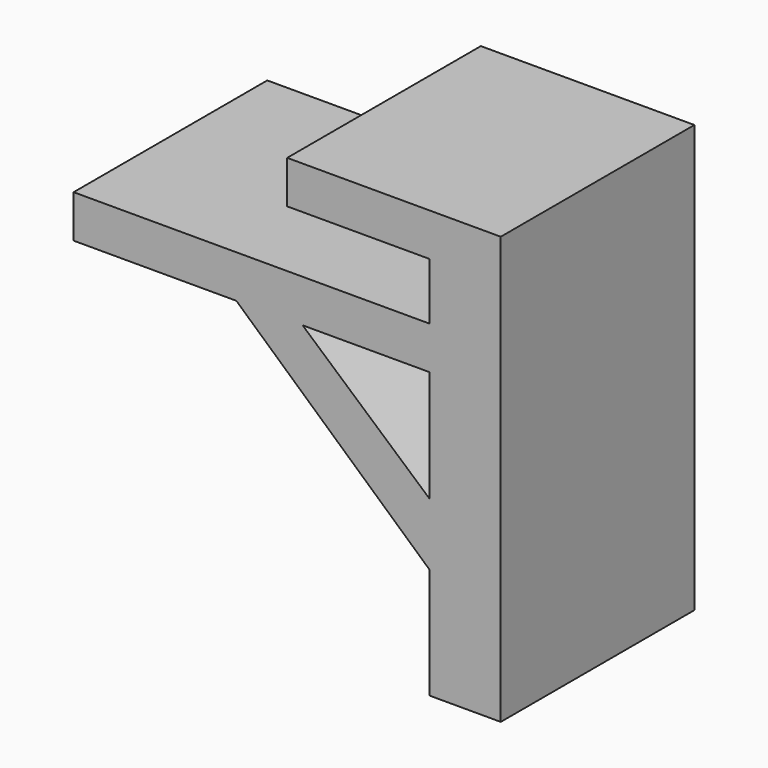
from build123d import *

# Parameters (mm, degrees)
F0_W     = 10
F0_H     = 3
F1_DEPTH = 17


with BuildPart() as f1:
    # F0 (on Front) → F1 (new body)
    with BuildSketch(Plane.XZ):
        Polygon((5, -1.182421), (0, -1.182421), (-25, -1.182421), (-25, -4.182421), (-13.570364, -4.182421), (-8.917906, -4.182421), (0, -4.182421), (5, -4.182421), align=None)
        Polygon((-8.917906, -4.182421), (-13.570364, -4.182421), (0, -16.399872), (0, -12.011758), align=None)
        Polygon((5, -24.182421), (5, -4.182421), (0, -4.182421), (0, -12.011758), (0, -16.399872), (0, -24.182421), align=None)
        Polygon((5, 5.817579), (0, 5.817579), (0, 2.817579), (0, -1.182421), (5, -1.182421), align=None)
        with Locations((-5, 4.317579)):
            Rectangle(F0_W, F0_H)
    extrude(amount=F1_DEPTH)


solid = f1.part
